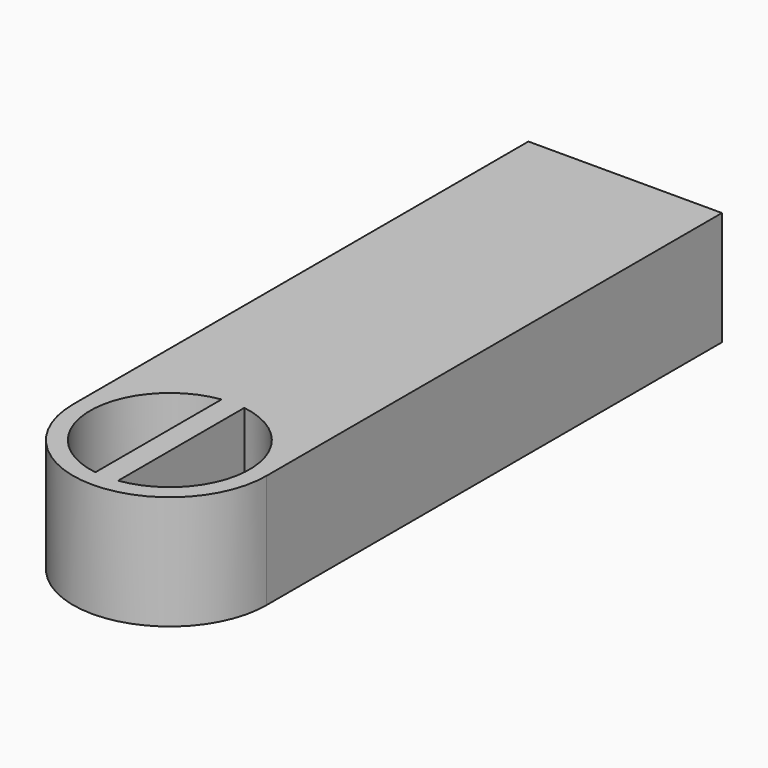
from build123d import *

# Parameters (mm, degrees)
F1_DEPTH = 5


with BuildPart() as f1:
    # F0 (on Top) → F1 (new body)
    with BuildSketch(Plane.XY):
        with BuildLine():
            Line((-4.25, 19.588463), (-4.25, -5.411537))
            ThreePointArc((-4.25, -5.411537), (0, -9.661537), (4.25, -5.411537))
            Line((4.25, -5.411537), (4.25, 19.588463))
            Line((4.25, 19.588463), (-4.25, 19.588463))
        make_face()
        with BuildLine():
            Line((-0.5, -1.947436), (-0.5, -2.962048))
            Line((-0.5, -2.962048), (-0.5, -7.861027))
            Line((-0.5, -7.861027), (-0.5, -8.875639))
            ThreePointArc((-0.5, -8.875639), (-3.5, -5.411537), (-0.5, -1.947436))
        make_face(mode=Mode.SUBTRACT)
        with BuildLine():
            Line((0.5, -7.861027), (0.5, -2.962048))
            Line((0.5, -2.962048), (0.5, -1.947436))
            ThreePointArc((0.5, -1.947436), (3.5, -5.411537), (0.5, -8.875639))
            Line((0.5, -8.875639), (0.5, -7.861027))
        make_face(mode=Mode.SUBTRACT)
    extrude(amount=F1_DEPTH)


solid = f1.part
